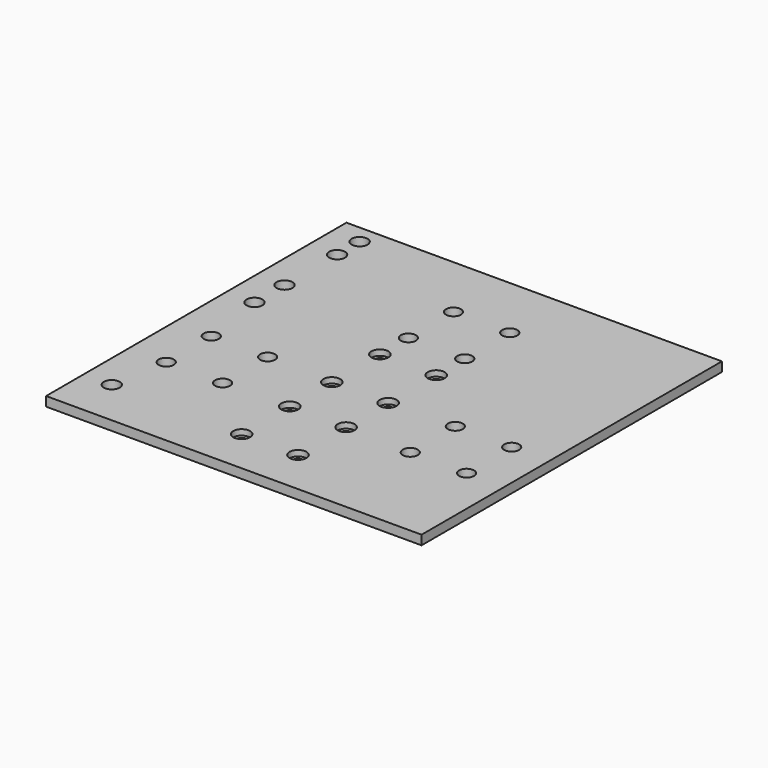
from build123d import *

# Parameters (mm, degrees)
F0_W     = 200
F0_H     = 5
F1_DEPTH = 200
F2_R     = 2.5
F3_DEPTH = 5.001
F4_R     = 4.25
F5_DEPTH = 5.001
F6_R     = 4.5
F7_DEPTH = 3
F8_R     = 4
F9_DEPTH = 25


with BuildPart() as f1:
    # F0 (on Right) → F1 (new body)
    with BuildSketch(Plane.YZ):
        with Locations((-100, 2.5)):
            Rectangle(F0_W, F0_H)
    extrude(amount=-F1_DEPTH)

    # F2 (on face) → F3 (cut, through all)
    with BuildSketch(Plane.XY.offset(5)):
        with Locations((-85, -84)):
            Circle(F2_R)
        with Locations((-115, -84)):
            Circle(F2_R)
        with Locations((-85, -116)):
            Circle(F2_R)
        with Locations((-115, -116)):
            Circle(F2_R)
        with Locations((-85, -144)):
            Circle(F2_R)
        with Locations((-115, -144)):
            Circle(F2_R)
        with Locations((-85, -176)):
            Circle(F2_R)
        with Locations((-115, -176)):
            Circle(F2_R)
    extrude(amount=-F3_DEPTH, mode=Mode.SUBTRACT)

    # F4 (on face) → F5 (cut, through all)
    with BuildSketch(Plane.XY.offset(5)):
        with Locations((-185, -25)):
            Circle(F4_R)
        with Locations((-185, -60)):
            Circle(F4_R)
        with Locations((-185, -10)):
            Circle(F4_R)
        with Locations((-185, -175)):
            Circle(F4_R)
        with Locations((-185, -80)):
            Circle(F4_R)
    extrude(amount=-F5_DEPTH, mode=Mode.SUBTRACT)

    # F6 (on face) → F7 (cut)
    with BuildSketch(Plane.XY.offset(5)):
        with Locations((-115, -84)):
            Circle(F6_R)
        with Locations((-85, -84)):
            Circle(F6_R)
        with Locations((-115, -116)):
            Circle(F6_R)
        with Locations((-85, -116)):
            Circle(F6_R)
        with Locations((-115, -144)):
            Circle(F6_R)
        with Locations((-85, -144)):
            Circle(F6_R)
        with Locations((-115, -176)):
            Circle(F6_R)
        with Locations((-85, -176)):
            Circle(F6_R)
    extrude(amount=-F7_DEPTH, mode=Mode.SUBTRACT)

    # F8 (on face) → F9 (cut)
    with BuildSketch(Plane.XY.offset(5)):
        with Locations((-150, -145)):
            Circle(F8_R)
        with Locations((-180, -145)):
            Circle(F8_R)
        with Locations((-20, -145)):
            Circle(F8_R)
        with Locations((-50, -145)):
            Circle(F8_R)
        with Locations((-20, -115)):
            Circle(F8_R)
        with Locations((-50, -115)):
            Circle(F8_R)
        with Locations((-150, -115)):
            Circle(F8_R)
        with Locations((-180, -115)):
            Circle(F8_R)
        with Locations((-85, -65)):
            Circle(F8_R)
        with Locations((-85, -35)):
            Circle(F8_R)
        with Locations((-115, -35)):
            Circle(F8_R)
        with Locations((-115, -65)):
            Circle(F8_R)
    extrude(amount=-F9_DEPTH, mode=Mode.SUBTRACT)


solid = f1.part
